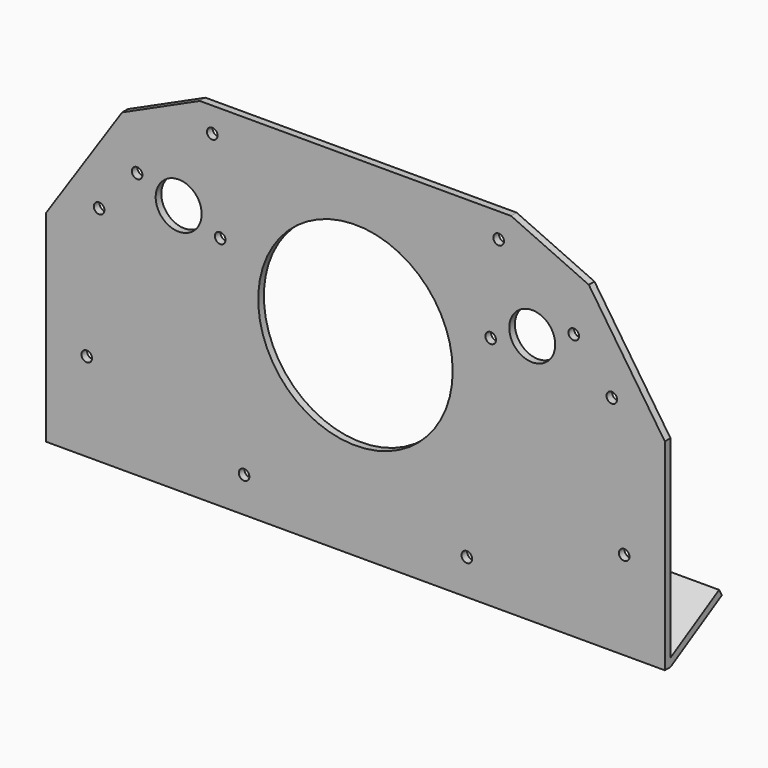
from build123d import *

# Parameters (mm, degrees)
F0_R     = 27.5
F1_DEPTH = 2
F2_R     = 6.5
F2_R_2   = 1.5
F3_DEPTH = 2
F4_R     = 1.5
F5_DEPTH = 2
F7_DEPTH = 175


with BuildPart() as f1:
    # F0 (on Front) → F1 (new body)
    with BuildSketch(Plane.XZ):
        Polygon((44, 44), (-44, 44), (-66, 34), (-87.5, 2), (-87.5, -55), (87.5, -55), (87.5, 2), (66, 34), align=None)
        Circle(F0_R, mode=Mode.SUBTRACT)
    extrude(amount=F1_DEPTH)

    # F2 (on face) → F3 (cut, through all)
    with BuildSketch(Plane.XZ.offset(2)):
        with Locations((50, 16)):
            Circle(F2_R)
        with Locations((61.746158, 20.275252)):
            Circle(F2_R_2)
        with Locations((38.253842, 11.724748)):
            Circle(F2_R_2)
        with Locations((-38.253842, 11.724748)):
            Circle(F2_R_2)
        with Locations((-61.746158, 20.275252)):
            Circle(F2_R_2)
        with Locations((-50, 16)):
            Circle(F2_R)
    extrude(amount=-F3_DEPTH, mode=Mode.SUBTRACT)

    # F4 (on face) → F5 (cut, through all)
    with BuildSketch(Plane.XZ.offset(2)):
        with Locations((-31.5, -45)):
            Circle(F4_R)
        with Locations((31.5, -45)):
            Circle(F4_R)
        with Locations((76, -30)):
            Circle(F4_R)
        with Locations((72.5, 8)):
            Circle(F4_R)
        with Locations((40.5, 37)):
            Circle(F4_R)
        with Locations((-40.5, 37)):
            Circle(F4_R)
        with Locations((-76, -30)):
            Circle(F4_R)
        with Locations((-72.5, 8)):
            Circle(F4_R)
    extrude(amount=-F5_DEPTH, mode=Mode.SUBTRACT)

    # F6 (on face) → F7 (join, through all)
    with BuildSketch(Plane.YZ.offset(87.5)):
        Polygon((0, -52.690599), (0, -55), (18.186533, -44.5), (17.186533, -42.767949), align=None)
    extrude(amount=-F7_DEPTH)


solid = f1.part
